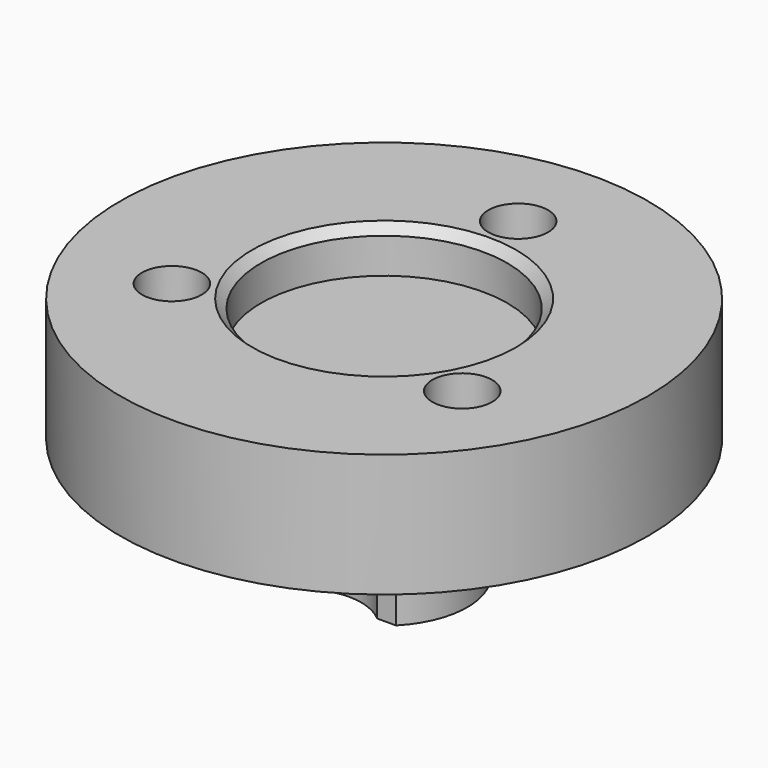
from build123d import *

# Parameters (mm, degrees)
SKETCH_R        = 15
SKETCH_R_2      = 1.7
PAD_DEPTH       = 7
PAD001_DEPTH    = 6.9
SKETCH006_R     = 3.5
POCKET003_DEPTH = 6.9
SKETCH003_R     = 1.5
POCKET004_DEPTH = 7.3
SKETCH008_R     = 7
POCKET_DEPTH    = 2.5
CHAMFER_SIZE    = 1.7
CHAMFER001_SIZE = 1.7
CHAMFER002_SIZE = 1.7
CHAMFER003_SIZE = 0.5


with BuildPart() as part:
    # Sketch → Pad (new body)
    with BuildSketch(Plane.XY):
        Circle(SKETCH_R)
        with Locations((0, 9.526279)):
            Circle(SKETCH_R_2, mode=Mode.SUBTRACT)
        with Locations((-8.25, -4.76314)):
            Circle(SKETCH_R_2, mode=Mode.SUBTRACT)
        with Locations((8.25, -4.76314)):
            Circle(SKETCH_R_2, mode=Mode.SUBTRACT)
    extrude(amount=PAD_DEPTH)

    # Sketch004 → Pad001 (new body)
    with BuildSketch(Plane(origin=(0, 0, 0), x_dir=(1, 0, 0), z_dir=(0, 0, -1))):
        with BuildLine():
            Line((-3.35, 3.35), (3.35, 3.35))
            ThreePointArc((3.35, -3.35), (4.737615, 0), (3.35, 3.35))
            Line((3.35, -3.35), (-3.35, -3.35))
            ThreePointArc((-3.35, 3.35), (-4.737615, 0), (-3.35, -3.35))
        make_face()
    extrude(amount=PAD001_DEPTH)

    # Sketch006 → Pocket003 (cut)
    with BuildSketch(Plane(origin=(0, 0, -6.9), x_dir=(1, 0, 0), z_dir=(0, 0, -1))):
        with Locations((0, 6)):
            Circle(SKETCH006_R)
        with Locations((0, -6)):
            Circle(SKETCH006_R)
    extrude(amount=-POCKET003_DEPTH, mode=Mode.SUBTRACT)

    # Sketch003 → Pocket004 (cut)
    with BuildSketch(Plane(origin=(0, 0, -6.9), x_dir=(1, 0, 0), z_dir=(0, 0, -1))):
        Circle(SKETCH003_R)
    extrude(amount=-POCKET004_DEPTH, mode=Mode.SUBTRACT)

    # Sketch008 → Pocket (cut)
    with BuildSketch(Plane.XY.offset(7)):
        Circle(SKETCH008_R)
    extrude(amount=-POCKET_DEPTH, mode=Mode.SUBTRACT)

    # Chamfer
    chamfer_edges = [part.edges().sort_by_distance(p)[0] for p in [
        (-9.95, -4.76314, 0),
    ]]
    chamfer(chamfer_edges, length=CHAMFER_SIZE)

    # Chamfer001
    chamfer001_edges = [part.edges().sort_by_distance(p)[0] for p in [
        (6.55, -4.76314, 0),
    ]]
    chamfer(chamfer001_edges, length=CHAMFER001_SIZE)

    # Chamfer002
    chamfer002_edges = [part.edges().sort_by_distance(p)[0] for p in [
        (-0.219827, 11.212007, 0),
    ]]
    chamfer(chamfer002_edges, length=CHAMFER002_SIZE)

    # Chamfer003
    chamfer003_edges = [part.edges().sort_by_distance(p)[0] for p in [
        (-7, 0, 7),
    ]]
    chamfer(chamfer003_edges, length=CHAMFER003_SIZE)


solid = part.part
